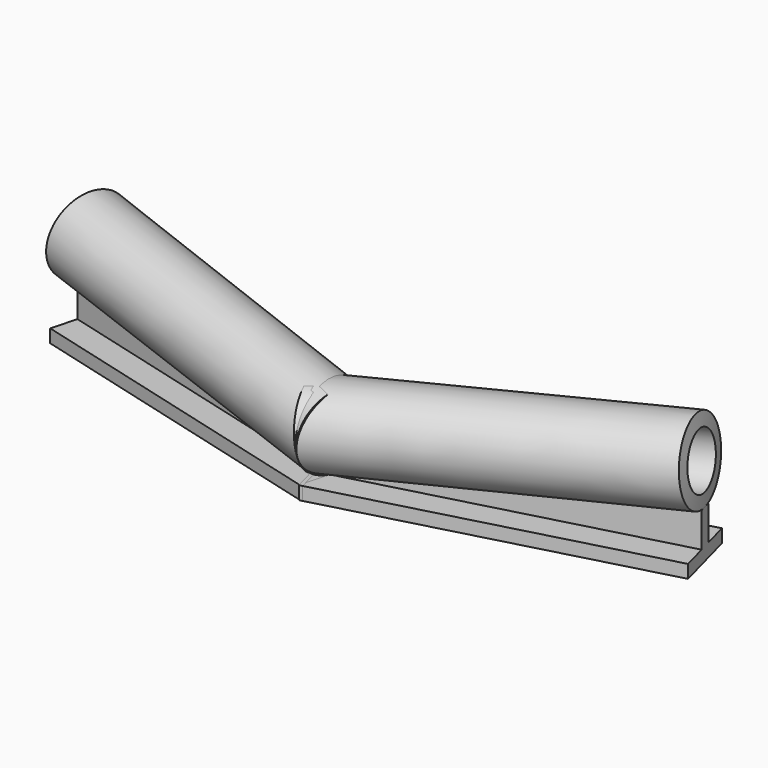
from build123d import *

# Parameters (mm, degrees)
F3_DEPTH  = 1
F4_DEPTH  = 5
F8_DEPTH  = 1
F9_DEPTH  = 5
F11_DEPTH = 0.5


with BuildPart() as f3:
    # F2 (on line) → F3 (new body, symmetric)
    with BuildSketch(Plane(origin=(0, 0, 0), x_dir=(-0.9659258263, -0.2588190451, 0), z_dir=(-0.2588190451, 0.9659258263, 0))):
        Polygon((-48.7758666277, 2), (1.0856067809, 2), (-48.7758666277, 7.2406520318), (-48.7758666277, 3), align=None)
    extrude(amount=F3_DEPTH, both=True)

    # F2 (on line) → F4 (join, symmetric)
    with BuildSketch(Plane(origin=(0, 0, 0), x_dir=(-0.9659258263, -0.2588190451, 0), z_dir=(-0.2588190451, 0.9659258263, 0))):
        Polygon((1.0856067809, 0), (1.0856067809, 2), (-48.7758666277, 2), (-48.7758666277, 0), (0.3855986568, 0), align=None)
    extrude(amount=F4_DEPTH, both=True)

    # F2 (on line) → F5 (revolve)
    with BuildSketch(Plane(origin=(0, 0, 0), x_dir=(-0.9659258263, -0.2588190451, 0), z_dir=(-0.2588190451, 0.9659258263, 0))):
        Polygon((-48.7758666277, 7.2406520318), (1.0856067809, 2), (1.0856067809, 4), (-48.7758666277, 9.2406520318), (-48.7758666277, 8.2406520318), align=None)
        Polygon((-48.7758666277, 7.2406520318), (1.0856067809, 2), (1.0856067809, 4), (-48.7758666277, 9.2406520318), (-48.7758666277, 8.2406520318), align=None)
    revolve(axis=Axis((22.9852616891, 6.1588823074, 10.667050615), (0.9604241712, 0.2573448811, 0.1065787198)))


with BuildPart() as f8:
    # F7 (on line) → F8 (new body, symmetric)
    with BuildSketch(Plane(origin=(0, 0, 0), x_dir=(0.9659258263, -0.2588190451, 0), z_dir=(-0.2588190451, -0.9659258263, 0))):
        Polygon((-48.7547442317, 2), (1.1067291769, 2), (-48.7547442317, 7.2406520318), (-48.7547442317, 3), align=None)
    extrude(amount=F8_DEPTH, both=True)


with BuildPart() as f9:
    # F7 (on line) → F9 (new body, symmetric)
    with BuildSketch(Plane(origin=(0, 0, 0), x_dir=(0.9659258263, -0.2588190451, 0), z_dir=(-0.2588190451, -0.9659258263, 0))):
        Polygon((1.1067291769, 0), (1.1067291769, 2), (-48.7547442317, 2), (-48.7547442317, 0), (-0.1932779279, 0), align=None)
    extrude(amount=F9_DEPTH, both=True)


with BuildPart() as f10:
    # F7 (on line) → F10 (revolve)
    with BuildSketch(Plane(origin=(0, 0, 0), x_dir=(0.9659258263, -0.2588190451, 0), z_dir=(-0.2588190451, -0.9659258263, 0))):
        Polygon((-48.7547442317, 7.2406520318), (1.1067291769, 2), (1.1067291769, 4), (-48.7547442317, 9.2406520318), (-48.7547442317, 8.2406520318), align=None)
    revolve(axis=Axis((-22.9648590213, 6.153415429, 10.667050615), (-0.9604241712, 0.2573448811, 0.1065787198)))


with BuildPart() as f11:
    # F11 (new): a face of the model
    f11_faces = [f3.part.faces().sort_by_distance(p)[0] for p in [
        (-1.0486156269, -0.2809757104, 1),
    ]]
    extrude(f11_faces, amount=F11_DEPTH)


solid = Compound([f3.part, f8.part, f9.part, f10.part, f11.part])
